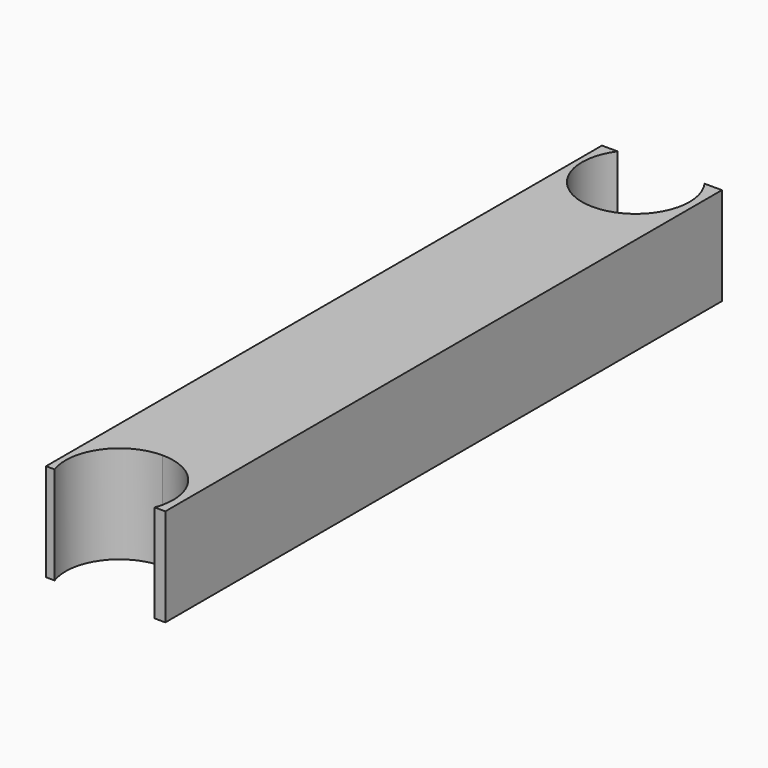
from build123d import *

# Parameters (mm, degrees)
F1_DEPTH = 10


with BuildPart() as f1:
    # F0 (on Top) → F1 (new body)
    with BuildSketch(Plane.XY):
        with BuildLine():
            Line((0, 27.5), (0, 0))
            Line((0, 0), (0, -27.5))
            ThreePointArc((0, -27.5), (3.889087, -29.110913), (5.5, -33))
            ThreePointArc((5.5, -33), (5.412226, -33.978676), (5.151707, -34.926114))
            Line((5.151707, -34.926114), (6.24222, -34.940071))
            Line((6.24222, -34.940071), (6.24222, 36.212053))
            Line((6.24222, 36.212053), (4.461345, 36.216583))
            ThreePointArc((4.461345, 36.216583), (5.233899, 34.69006), (5.5, 33))
            ThreePointArc((5.5, 33), (3.889087, 29.110913), (0, 27.5))
        make_face()
        with BuildLine():
            Line((0, -27.5), (0, 0))
            Line((0, 0), (0, 27.5))
            ThreePointArc((0, 27.5), (-4.902336, 30.506588), (-4.444925, 36.239235))
            Line((-4.444925, 36.239235), (-6.053493, 36.243326))
            Line((-6.053493, 36.243326), (-6.075674, -34.782417))
            Line((-6.075674, -34.782417), (-5.199315, -34.793633))
            ThreePointArc((-5.199315, -34.793633), (-4.478559, -29.807429), (0, -27.5))
        make_face()
    extrude(amount=F1_DEPTH)


solid = f1.part
